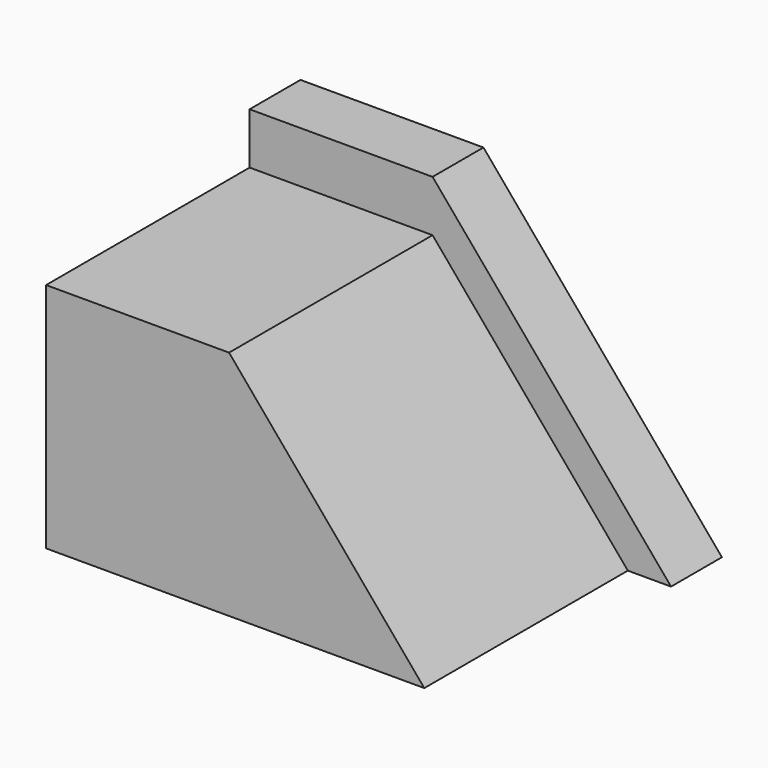
from build123d import *

# Parameters (mm, degrees)
F1_DEPTH = 50.8
F2_DEPTH = 12.7
F3_R     = 7.079162
F4_DEPTH = 38.1


with BuildPart() as f1:
    # F0 (on Front) → F1 (new body)
    with BuildSketch(Plane.XZ):
        Polygon((0, 46.30015), (0, 0), (75.533654, 0), (36.544055, 46.30015), align=None)
    extrude(amount=F1_DEPTH)

    # F3 (on Right) → F4 (cut, symmetric)
    with BuildSketch(Plane.YZ):
        with Locations((-25.320366, 23.04608)):
            Circle(F3_R)
    extrude(amount=F4_DEPTH, both=True, mode=Mode.SUBTRACT)


with BuildPart() as f2:
    # F0 (on Front) → F2 (new body)
    with BuildSketch(Plane.XZ):
        Polygon((0, 56.552324), (0, 46.30015), (36.544055, 46.30015), (75.533654, 0), (84.167063, 0), (36.544055, 56.552324), align=None)
    extrude(amount=-F2_DEPTH)


solid = Compound([f1.part, f2.part])
